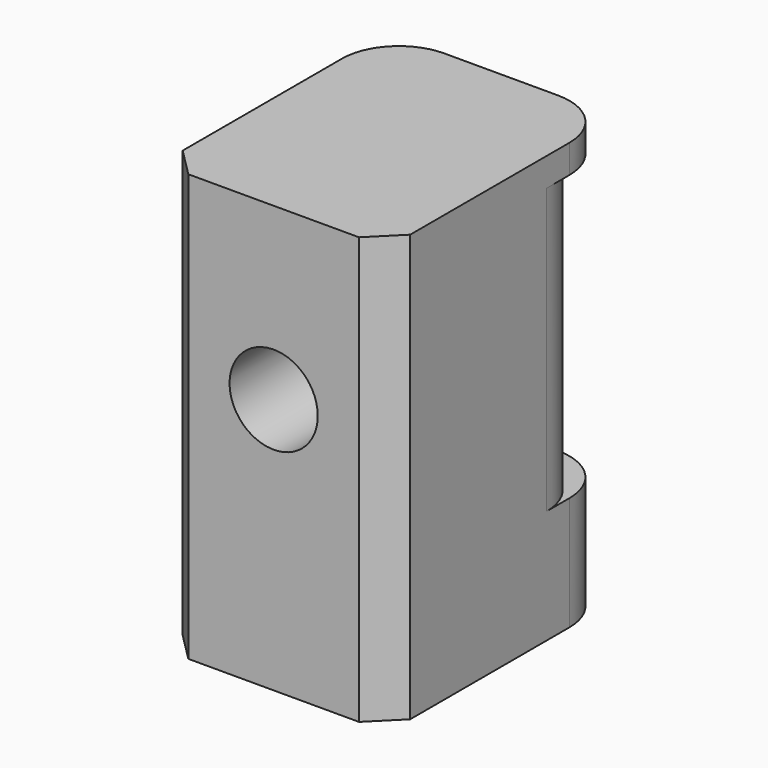
from build123d import *

# Parameters (mm, degrees)
CYLINDER006_R     = 1.55
CYLINDER006_DEPTH = 67
BOX009_W          = 8
BOX009_H          = 10
BOX009_DEPTH      = 10
BOX004_W          = 8
BOX004_H          = 10
BOX004_DEPTH      = 15
FILLET001_R       = 2
FILLET002_R       = 2
CHAMFER017_SIZE   = 1


with BuildPart() as cylinder006:
    # Cylinder006 → Cylinder006 (new body)
    with BuildSketch(Plane(origin=(0, 0, 9), x_dir=(1, 0, 0), z_dir=(0, -1, 0))):
        Circle(CYLINDER006_R)
    extrude(amount=CYLINDER006_DEPTH)


with BuildPart() as cube009:
    # Box009 → Box009 (new body)
    with BuildSketch(Plane(origin=(-4, 5, 4), x_dir=(1, 0, 0), z_dir=(0, 0, 1))):
        with Locations((4, 5)):
            Rectangle(BOX009_W, BOX009_H)
    extrude(amount=BOX009_DEPTH)


with BuildPart() as chamfer017:
    # Box004 → Box004 (new body)
    with BuildSketch(Plane(origin=(-4, -4, 0), x_dir=(1, 0, 0), z_dir=(0, 0, 1))):
        with Locations((4, 5)):
            Rectangle(BOX004_W, BOX004_H)
    extrude(amount=BOX004_DEPTH)

    # Cut002: cut Cube009
    add(cube009.part, mode=Mode.SUBTRACT)

    # Fillet001
    fillet001_edges = [chamfer017.edges().sort_by_distance(p)[0] for p in [
        (-4, 5, 9),
        (4, 5, 9),
    ]]
    fillet(fillet001_edges, radius=FILLET001_R)

    # Fillet002
    fillet002_edges = [chamfer017.edges().sort_by_distance(p)[0] for p in [
        (-4, 6, 2),
        (-4, 6, 14.5),
        (4, 6, 2),
        (4, 6, 14.5),
    ]]
    fillet(fillet002_edges, radius=FILLET002_R)

    # Cut003: cut Cylinder006
    add(cylinder006.part, mode=Mode.SUBTRACT)


with BuildPart() as chamfer017_1:
    # Cut003 placement: moved
    add(chamfer017.part.moved(Location((0, -3, 0))))

    # Chamfer017
    chamfer017_edges = [chamfer017_1.edges().sort_by_distance(p)[0] for p in [
        (-4, -7, 7.5),
        (4, -7, 7.5),
    ]]
    chamfer(chamfer017_edges, length=CHAMFER017_SIZE)


solid = chamfer017_1.part
